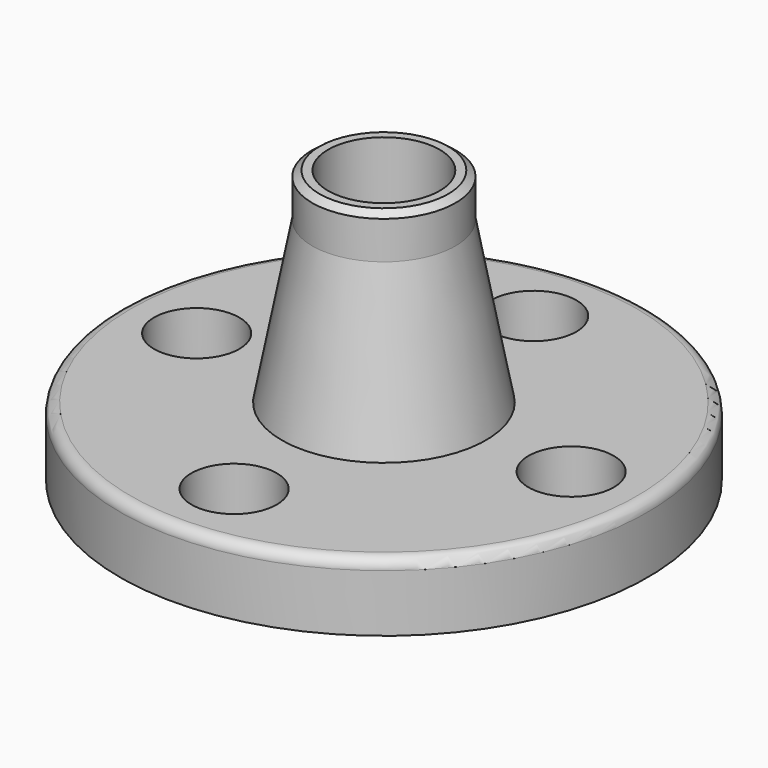
from build123d import *

# Parameters (mm, degrees)
F2_R     = 7.95
F3_DEPTH = 14.301


with BuildPart() as f1:
    # F0 (on Front) → F1 (revolve)
    with BuildSketch(Plane.XZ):
        with BuildLine():
            Line((-21.45, 0), (-10.4, 0))
            Line((-10.4, 0), (-10.4, 52.4))
            Line((-10.4, 52.4), (-12, 52.4))
            Line((-12, 52.4), (-13.35, 51.364109))
            Line((-13.35, 51.364109), (-13.35, 44.3))
            Line((-13.35, 44.3), (-19.05, 14.3))
            Line((-19.05, 14.3), (-47.2, 14.3))
            ThreePointArc((-47.2, 14.3), (-48.614214, 13.714214), (-49.2, 12.3))
            Line((-49.2, 12.3), (-49.2, 1.6))
            Line((-49.2, 1.6), (-21.45, 1.6))
            Line((-21.45, 1.6), (-21.45, 0))
        make_face()
    revolve(axis=Axis((0, 0, 26.2), (0, 0, 1)))

    # F2 (on face) → F3 (cut, through all)
    with BuildSketch(Plane.XY.offset(14.3)):
        with Locations((0, 34.9)):
            Circle(F2_R)
        with Locations((-34.9, 0)):
            Circle(F2_R)
        with Locations((0, -34.9)):
            Circle(F2_R)
        with Locations((34.9, 0)):
            Circle(F2_R)
    extrude(amount=-F3_DEPTH, mode=Mode.SUBTRACT)


solid = f1.part
